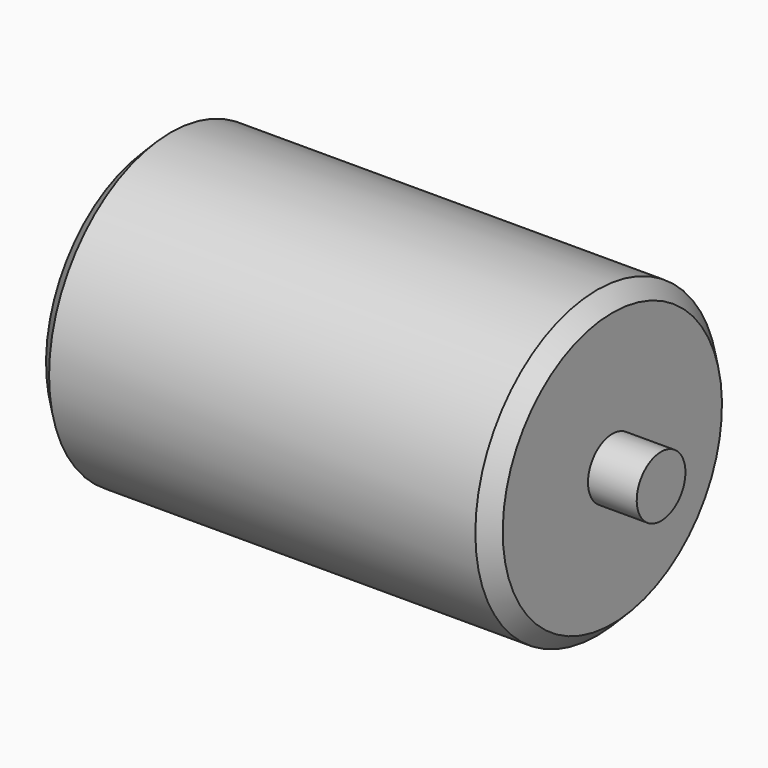
from build123d import *

# Parameters (mm, degrees)
F2_SIZE2 = 5
F2_SIZE  = 5


with BuildPart() as f1:
    # F0 (on Front) → F1 (revolve)
    with BuildSketch(Plane.XZ):
        Polygon((75, 50), (0, 50), (-75, 50), (-75, 10), (-91, 10), (-91, 0), (0, 0), (91, 0), (91, 10), (75, 10), align=None)
    revolve(axis=Axis((45.5, 0, 0), (-1, 0, 0)))

    # F2
    f2_edges = [f1.edges().sort_by_distance(p)[0] for p in [
        (75, 0, -50),
        (-75, 0, -50),
    ]]
    chamfer(f2_edges, length=F2_SIZE, length2=F2_SIZE2)


solid = f1.part
